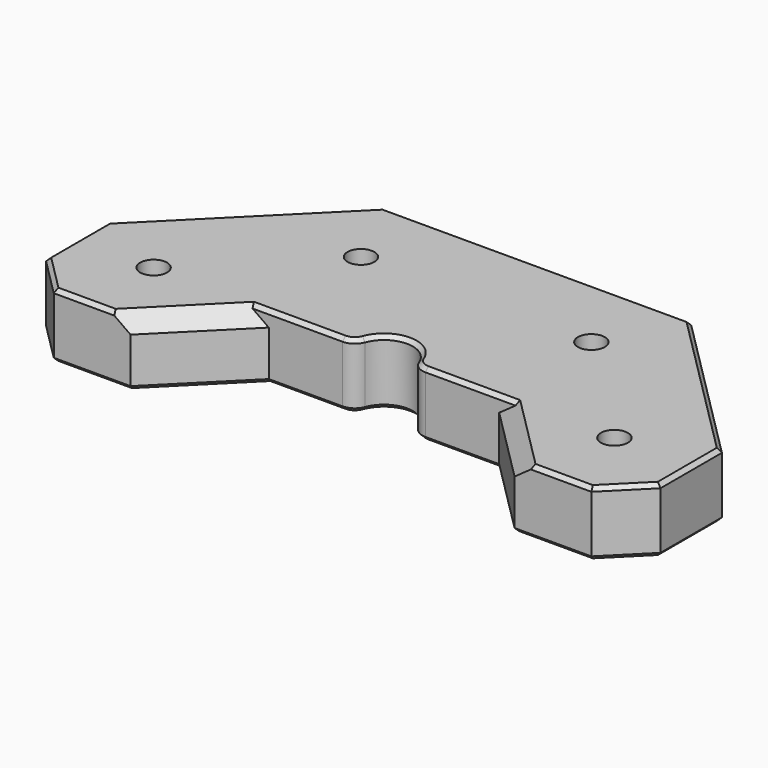
from build123d import *

# Parameters (mm, degrees)
SKETCH_R        = 1.75
PAD_DEPTH       = 8.4
FILLET_R        = 2
CHAMFER001_SIZE = 2
CHAMFER_SIZE    = 0.5


with BuildPart() as part:
    # Sketch → Pad (new body)
    with BuildSketch(Plane.XY):
        with BuildLine():
            Line((-10, -5), (-5, -10))
            Line((-5, -10), (5, -10))
            Line((5, -10), (15, 0))
            Line((15, 0), (26.25, 0))
            ThreePointArc((33.75, 0), (30, 3.75), (26.25, 0))
            Line((33.75, 0), (45, 0))
            Line((45, 0), (55, -10))
            Line((55, -10), (65, -10))
            Line((65, -10), (70, -5))
            Line((70, -5), (70, 5))
            Line((70, 5), (50, 25))
            Line((50, 25), (10, 25))
            Line((10, 25), (-10, 5))
            Line((-10, 5), (-10, -5))
        make_face()
        Circle(SKETCH_R, mode=Mode.SUBTRACT)
        with Locations((15, 15)):
            Circle(SKETCH_R, mode=Mode.SUBTRACT)
        with Locations((45, 15)):
            Circle(SKETCH_R, mode=Mode.SUBTRACT)
        with Locations((60, 0)):
            Circle(SKETCH_R, mode=Mode.SUBTRACT)
    extrude(amount=PAD_DEPTH)

    # Fillet
    fillet_edges = [part.edges().sort_by_distance(p)[0] for p in [
        (33.75, 0, 4.2),
        (26.25, 0, 4.2),
    ]]
    fillet(fillet_edges, radius=FILLET_R)

    # Chamfer001
    chamfer001_edges = [part.edges().sort_by_distance(p)[0] for p in [
        (10, -5, 8.4),
        (50, -5, 8.4),
    ]]
    chamfer(chamfer001_edges, length=CHAMFER001_SIZE)

    # Chamfer
    chamfer_edges = [part.edges().sort_by_distance(p)[0] for p in [
        (40.195482, 0, 0),
        (34.248884, 0.358156, 0),
        (50, -5, 0),
        (30, 3.75, 0),
        (60, -10, 0),
        (25.751116, 0.358156, 0),
        (67.5, -7.5, 0),
        (19.804518, 0, 0),
        (70, 0, 0),
        (10, -5, 0),
        (60, 15, 0),
        (0, -10, 0),
        (30, 25, 0),
        (-7.5, -7.5, 0),
        (0, 15, 0),
        (-10, 0, 0),
        (58.25, 0, 0),
        (43.25, 15, 0),
        (13.25, 15, 0),
        (-1.75, 0, 0),
        (19.804518, 0, 8.4),
        (-1.414214, -10, 8.4),
        (61.414214, -10, 8.4),
        (67.5, -7.5, 8.4),
        (70, 0, 8.4),
        (-7.5, -7.5, 8.4),
        (-10, 0, 8.4),
        (0, 15, 8.4),
        (30, 25, 8.4),
        (60, 15, 8.4),
    ]]
    chamfer(chamfer_edges, length=CHAMFER_SIZE)


solid = part.part
